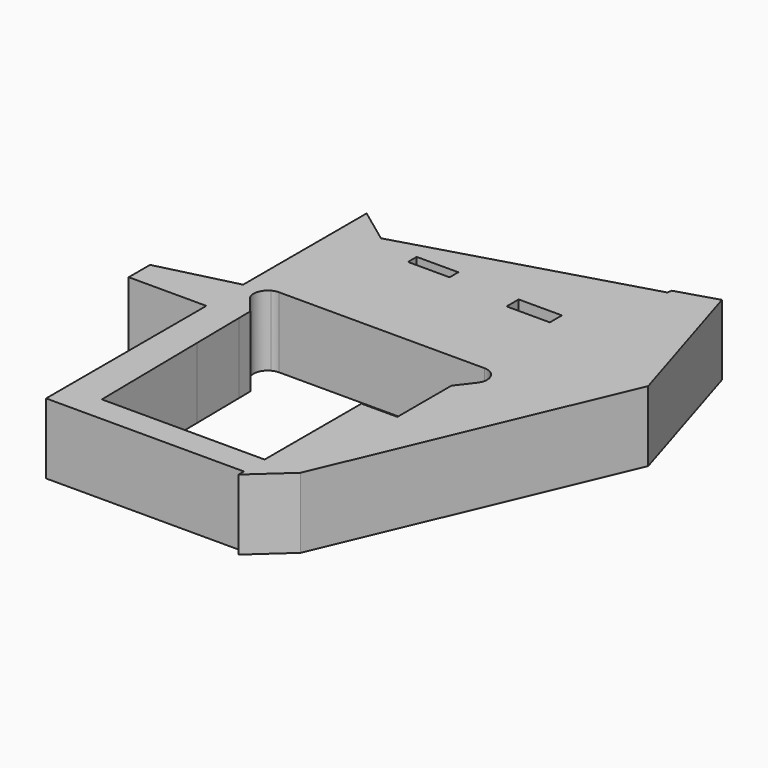
from build123d import *

# Parameters (mm, degrees)
F0_W     = 14.7602576762
F0_H     = 3.8799718022
F0_W_2   = 15.3383538127
F0_H_2   = 5.3616389632
F0_W_3   = 12.7302650362
F0_H_3   = 42.9276376963
F1_DEPTH = 25


with BuildPart() as f1:
    # F0 (on Top) → F1 (new body)
    with BuildSketch(Plane.XY):
        with BuildLine():
            Line((-41.8914481997, 25.6085544825), (-30.3453952074, 30.6414496154))
            Line((-30.3453952074, 30.6414496154), (-35.0931140335, 36.3630584026))
            ThreePointArc((-35.0931140335, 36.3630584026), (-36.1496783198, 40.5291275429), (-33.5824096079, 43.9760959986))
            Line((-33.5824096079, 43.9760959986), (-41.8914481997, 41.9146602538))
            Line((-41.8914481997, 41.9146602538), (-41.8914481997, 25.6085544825))
        make_face()
        Polygon((-30.2785868891, 25.6085544824), (-30.3453952074, 30.6414496154), (-41.8914481997, 25.6085544825), align=None)
        Polygon((-30.0270732639, 6.6611878574), (-30.2785868891, 25.6085544824), (-41.8914481997, 25.6085544825), (-41.8914481997, -45.4440824687), (-29.4572375715, -36.2664498389), align=None)
        Polygon((-69.4309175014, 25.6085544825), (-41.8914481997, 25.6085544825), (-41.8914481997, 41.9146602538), (-69.4309175014, 35.0822396576), align=None)
        Polygon((-29.4572375715, 87.4835588038), (-30.0270732639, 44.5559211075), (38.9467375503, 44.5559211075), align=None)
        with BuildLine():
            Line((-31.2453058591, 44.5559211075), (-30.0270732639, 44.5559211075))
            Line((-30.0270732639, 44.5559211075), (-29.4572375715, 87.4835588038))
            Line((-29.4572375715, 87.4835588038), (-41.8914481997, 96.6611914337))
            Line((-41.8914481997, 96.6611914337), (-41.8914481997, 41.9146602538))
            Line((-41.8914481997, 41.9146602538), (-33.5824096079, 43.9760959986))
            ThreePointArc((-33.5824096079, 43.9760959986), (-32.4492837544, 44.4088003794), (-31.2453058591, 44.5559211075))
        make_face()
        Polygon((-29.4572375715, -36.2664498389), (-41.8914481997, -45.4440824687), (28.2730255276, -45.4440824687), (28.2730255276, -36.2664498389), align=None)
        with BuildLine():
            Line((45.5025919776, 36.5155363053), (41.0032905638, 30.6414496154))
            Line((41.0032905638, 30.6414496154), (41.0032905638, 6.6611878574))
            Line((41.0032905638, 6.6611878574), (41.0032905638, -36.2664498389))
            Line((41.0032905638, -36.2664498389), (83.6994573474, 64.5043104887))
            Line((83.6994573474, 64.5043104887), (67.339964211, 117.6310479641))
            Line((67.339964211, 117.6310479641), (53.0811295514, 113.2402775379))
            Line((53.0811295514, 113.2402775379), (52.7791223524, 111.6383405707))
            Line((52.7791223524, 111.6383405707), (40.1323241217, 44.5559211075))
            Line((40.1323241217, 44.5559211075), (41.5332015641, 44.5559211075))
            ThreePointArc((41.5332015641, 44.5559211075), (46.0166112047, 41.7692981641), (45.5025919776, 36.5155363053))
        make_face()
        Polygon((-29.4572375715, 87.4835588038), (38.9467375503, 44.5559211075), (40.1323241217, 44.5559211075), (52.7791223524, 111.6383405707), align=None)
        with Locations((-7.3801288381, 83.009172231)):
            Rectangle(F0_W, F0_H, mode=Mode.SUBTRACT)
        with Locations((30.8985039592, 79.9858681858)):
            Rectangle(F0_W_2, F0_H_2, mode=Mode.SUBTRACT)
        with Locations((34.6381580457, -14.8026309907)):
            Rectangle(F0_W_3, F0_H_3)
        Polygon((28.2730255276, -36.2664498389), (28.2730255276, -45.4440824687), (28.2730255276, -47.8125028312), (41.0032905638, -36.2664498389), align=None)
    extrude(amount=F1_DEPTH)


solid = f1.part
